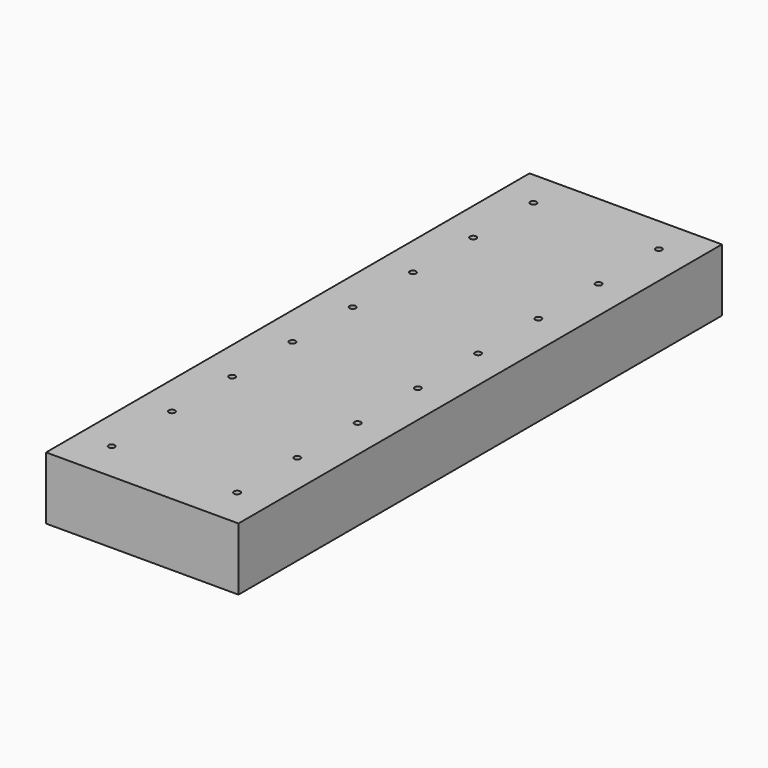
from build123d import *

# Parameters (mm, degrees)
F0_W     = 77.932905
F0_H     = 244.814397
F0_R     = 1.27
F1_DEPTH = 25.4


with BuildPart() as f1:
    # F0 (on Top) → F1 (new body)
    with BuildSketch(Plane.XY):
        with Locations((-22.440462, -80.221637)):
            Rectangle(F0_W, F0_H)
        with Locations((-47.840462, -186.350939)):
            Circle(F0_R, mode=Mode.SUBTRACT)
        with Locations((-47.840462, -155.845539)):
            Circle(F0_R, mode=Mode.SUBTRACT)
        with Locations((-47.840462, -125.340139)):
            Circle(F0_R, mode=Mode.SUBTRACT)
        with Locations((-47.840462, -94.834739)):
            Circle(F0_R, mode=Mode.SUBTRACT)
        with Locations((2.959538, -186.350939)):
            Circle(F0_R, mode=Mode.SUBTRACT)
        with Locations((2.959538, -155.845539)):
            Circle(F0_R, mode=Mode.SUBTRACT)
        with Locations((2.959538, -125.340139)):
            Circle(F0_R, mode=Mode.SUBTRACT)
        with Locations((2.959538, -94.834739)):
            Circle(F0_R, mode=Mode.SUBTRACT)
        with Locations((-47.840462, -64.329339)):
            Circle(F0_R, mode=Mode.SUBTRACT)
        with Locations((-47.840462, -33.823939)):
            Circle(F0_R, mode=Mode.SUBTRACT)
        with Locations((-47.840462, -3.318539)):
            Circle(F0_R, mode=Mode.SUBTRACT)
        with Locations((-47.840462, 27.186861)):
            Circle(F0_R, mode=Mode.SUBTRACT)
        with Locations((2.959538, -64.329339)):
            Circle(F0_R, mode=Mode.SUBTRACT)
        with Locations((2.959538, -33.823939)):
            Circle(F0_R, mode=Mode.SUBTRACT)
        with Locations((2.959538, -3.318539)):
            Circle(F0_R, mode=Mode.SUBTRACT)
        with Locations((2.959538, 27.186861)):
            Circle(F0_R, mode=Mode.SUBTRACT)
    extrude(amount=F1_DEPTH)


solid = f1.part
